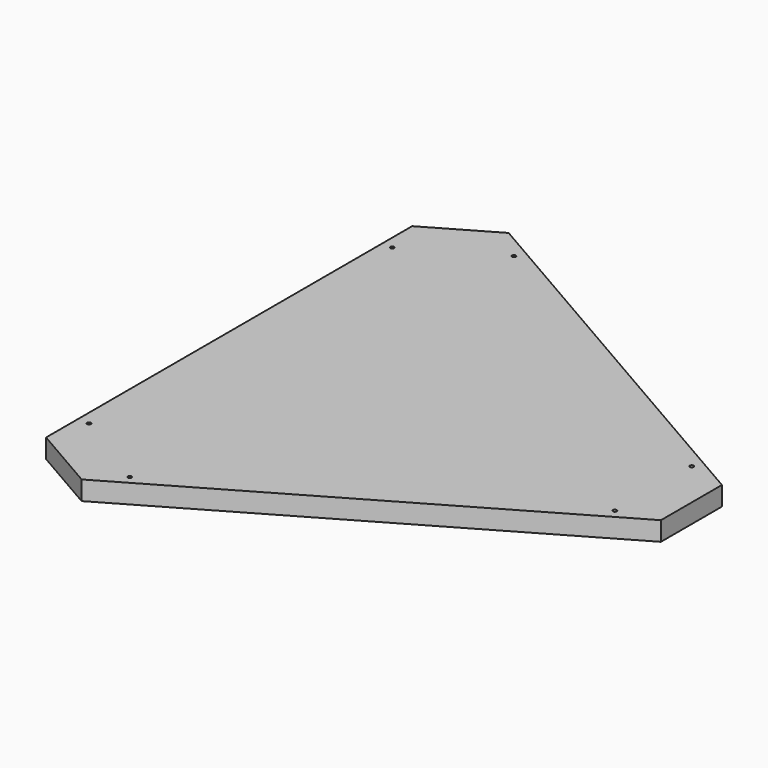
from build123d import *

# Parameters (mm, degrees)
F0_R     = 1.27
F1_DEPTH = 12.7


with BuildPart() as f1:
    # F0 (on Top) → F1 (new body)
    with BuildSketch(Plane.XY):
        Polygon((-146.409384, 152.4), (-146.409384, -152.4), (-102.415293, -177.8), (161.54925, -25.4), (161.54925, 25.4), (-102.415293, 177.8), align=None)
        with Locations((-84.587362, -160.080458)):
            Circle(F0_R, mode=Mode.SUBTRACT)
        with Locations((-138.837315, -126.125451)):
            Circle(F0_R, mode=Mode.SUBTRACT)
        with Locations((136.14925, -32)):
            Circle(F0_R, mode=Mode.SUBTRACT)
        with Locations((-139.425151, 127.102955)):
            Circle(F0_R, mode=Mode.SUBTRACT)
        with Locations((-83.999525, 159.102955)):
            Circle(F0_R, mode=Mode.SUBTRACT)
        with Locations((136.14925, 32)):
            Circle(F0_R, mode=Mode.SUBTRACT)
    extrude(amount=F1_DEPTH)


solid = f1.part
